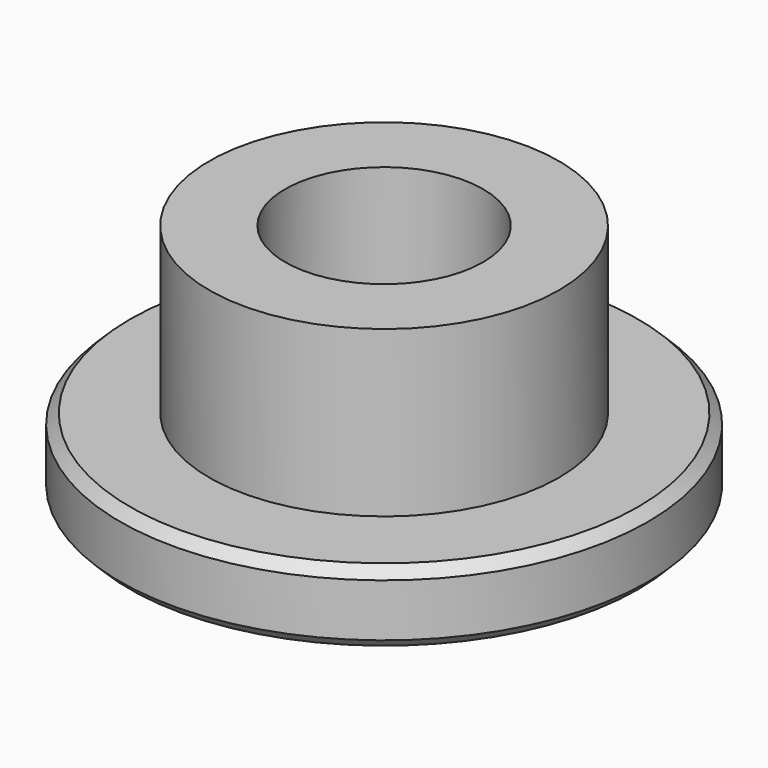
from build123d import *

# Parameters (mm, degrees)
F0_R     = 5.3
F0_R_2   = 3
F1_DEPTH = 7.2
F0_R_3   = 8
F2_DEPTH = 2.2
F3_SIZE  = 0.5
F4_SIZE  = 0.3
F5_SIZE  = 0.3


with BuildPart() as f1:
    # F0 (on Top) → F1 (new body)
    with BuildSketch(Plane.XY):
        Circle(F0_R)
        Circle(F0_R_2, mode=Mode.SUBTRACT)
    extrude(amount=F1_DEPTH)

    # F0 (on Top) → F2 (join)
    with BuildSketch(Plane.XY):
        Circle(F0_R_3)
        Circle(F0_R, mode=Mode.SUBTRACT)
    extrude(amount=F2_DEPTH)

    # F3
    f3_edges = [f1.edges().sort_by_distance(p)[0] for p in [
        (-3, 0, 0),
    ]]
    chamfer(f3_edges, length=F3_SIZE)

    # F4
    f4_edges = [f1.edges().sort_by_distance(p)[0] for p in [
        (-8, 0, 2.2),
    ]]
    chamfer(f4_edges, length=F4_SIZE)

    # F5
    f5_edges = [f1.edges().sort_by_distance(p)[0] for p in [
        (-8, 0, 0),
    ]]
    chamfer(f5_edges, length=F5_SIZE)


solid = f1.part
